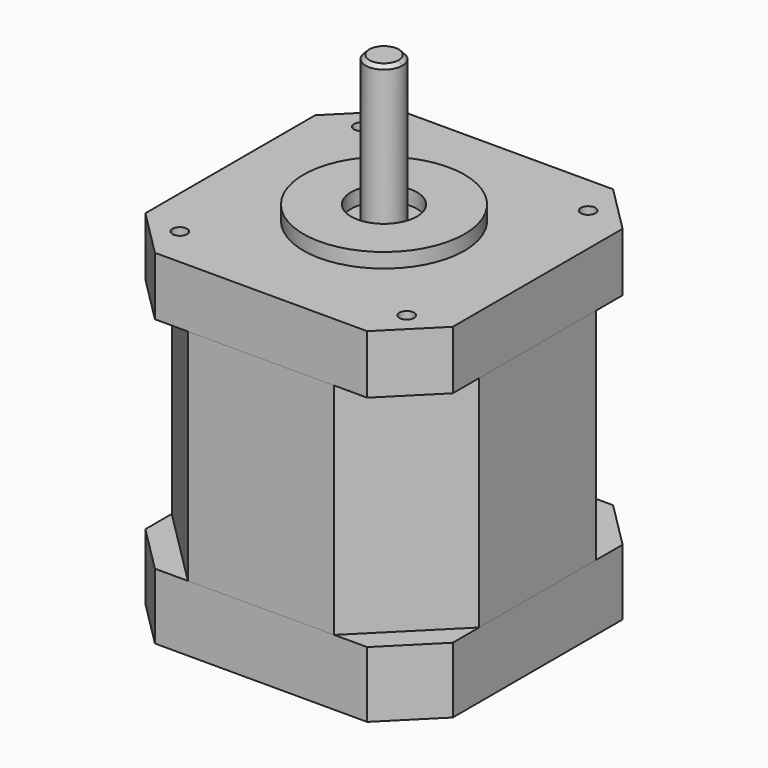
from build123d import *

# Parameters (mm, degrees)
F0_W      = 42
F0_H      = 42
F1_DEPTH  = 9
F2_SIZE   = 6.5
F3_W      = 42
F3_H      = 42
F4_DEPTH  = 30
F5_SIZE   = 11
F6_W      = 42
F6_H      = 42
F7_DEPTH  = 8
F8_SIZE   = 6.5
F9_R      = 11
F9_R_2    = 4.5
F10_DEPTH = 2
F11_R     = 2.5
F12_DEPTH = 20
F13_SIZE  = 0.5
F14_W     = 6
F14_H     = 1
F15_DEPTH = 18
F16_R     = 1
F17_DEPTH = 5
F18_DEPTH = 17


with BuildPart() as f1:
    # F0 (on Top) → F1 (new body)
    with BuildSketch(Plane.XY):
        Rectangle(F0_W, F0_H)
    extrude(amount=F1_DEPTH)

    # F2
    f2_edges = [f1.edges().sort_by_distance(p)[0] for p in [
        (-21, -21, 4.5),
        (21, -21, 4.5),
        (21, 21, 4.5),
        (-21, 21, 4.5),
    ]]
    chamfer(f2_edges, length=F2_SIZE)

    # F14 (on face) → F15 (cut)
    with BuildSketch(Plane.XY.offset(67)):
        with Locations((0, 2.5)):
            Rectangle(F14_W, F14_H)
    extrude(amount=F15_DEPTH, mode=Mode.SUBTRACT)


with BuildPart() as f4:
    # F3 (on face) → F4 (new body)
    with BuildSketch(Plane.XY.offset(9)):
        Rectangle(F3_W, F3_H)
    extrude(amount=F4_DEPTH)

    # F5
    f5_edges = [f4.edges().sort_by_distance(p)[0] for p in [
        (21, 21, 24),
        (-21, 21, 24),
        (-21, -21, 24),
        (21, -21, 24),
    ]]
    chamfer(f5_edges, length=F5_SIZE)


with BuildPart() as f7:
    # F6 (on face) → F7 (new body)
    with BuildSketch(Plane.XY.offset(39)):
        Rectangle(F6_W, F6_H)
    extrude(amount=F7_DEPTH)

    # F8
    f8_edges = [f7.edges().sort_by_distance(p)[0] for p in [
        (-21, -21, 43),
        (21, -21, 43),
        (21, 21, 43),
        (-21, 21, 43),
    ]]
    chamfer(f8_edges, length=F8_SIZE)

    # F9 (on face) → F10 (join)
    with BuildSketch(Plane.XY.offset(47)):
        Circle(F9_R)
        Circle(F9_R_2, mode=Mode.SUBTRACT)
    extrude(amount=F10_DEPTH)

    # F16 (on face) → F17 (cut)
    with BuildSketch(Plane.XY.offset(47)):
        with Locations((-15.5, 15.5)):
            Circle(F16_R)
        with Locations((15.5, 15.5)):
            Circle(F16_R)
        with Locations((-15.5, -15.5)):
            Circle(F16_R)
        with Locations((15.5, -15.5)):
            Circle(F16_R)
    extrude(amount=-F17_DEPTH, mode=Mode.SUBTRACT)


with BuildPart() as f12:
    # F11 (on face) → F12 (new body)
    with BuildSketch(Plane.XY.offset(47)):
        Circle(F11_R)
    extrude(amount=F12_DEPTH)

    # F13
    f13_edges = [f12.edges().sort_by_distance(p)[0] for p in [
        (-2.5, 0, 67),
    ]]
    chamfer(f13_edges, length=F13_SIZE)

    # F14 (on face) → F18 (cut)
    with BuildSketch(Plane.XY.offset(67)):
        with Locations((0, 2.5)):
            Rectangle(F14_W, F14_H)
    extrude(amount=-F18_DEPTH, mode=Mode.SUBTRACT)


solid = Compound([f1.part, f4.part, f7.part, f12.part])
